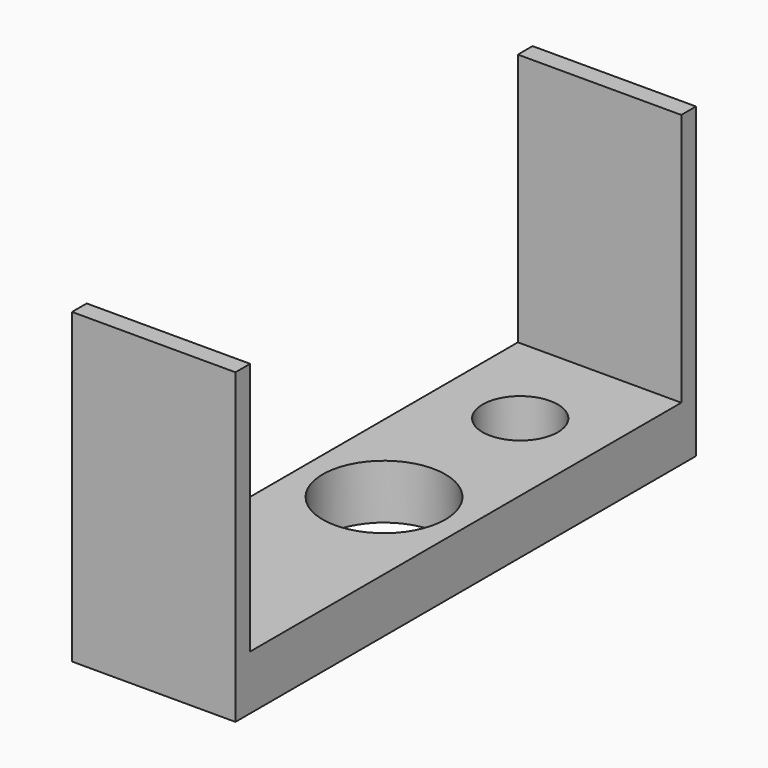
from build123d import *

# Parameters (mm, degrees)
F0_W     = 24
F0_H     = 84.54
F1_DEPTH = 8
F2_W     = 24
F2_H     = 2.7
F3_DEPTH = 37.2
F4_R     = 9
F5_DEPTH = 8.001
F6_R     = 5.524405
F7_DEPTH = 8.001


with BuildPart() as f1:
    # F0 (on Top) → F1 (new body)
    with BuildSketch(Plane.XY):
        Rectangle(F0_W, F0_H)
    extrude(amount=F1_DEPTH)

    # F2 (on face) → F3 (join)
    with BuildSketch(Plane.XY.offset(8)):
        with Locations((0, 40.92)):
            Rectangle(F2_W, F2_H)
        with Locations((0, -40.92)):
            Rectangle(F2_W, F2_H)
    extrude(amount=F3_DEPTH)

    # F4 (on face) → F5 (cut, through all)
    with BuildSketch(Plane.XY.offset(8)):
        Circle(F4_R)
    extrude(amount=-F5_DEPTH, mode=Mode.SUBTRACT)

    # F6 (on face) → F7 (cut, through all)
    with BuildSketch(Plane.XY.offset(8)):
        with Locations((0, 25)):
            Circle(F6_R)
    extrude(amount=-F7_DEPTH, mode=Mode.SUBTRACT)


solid = f1.part
